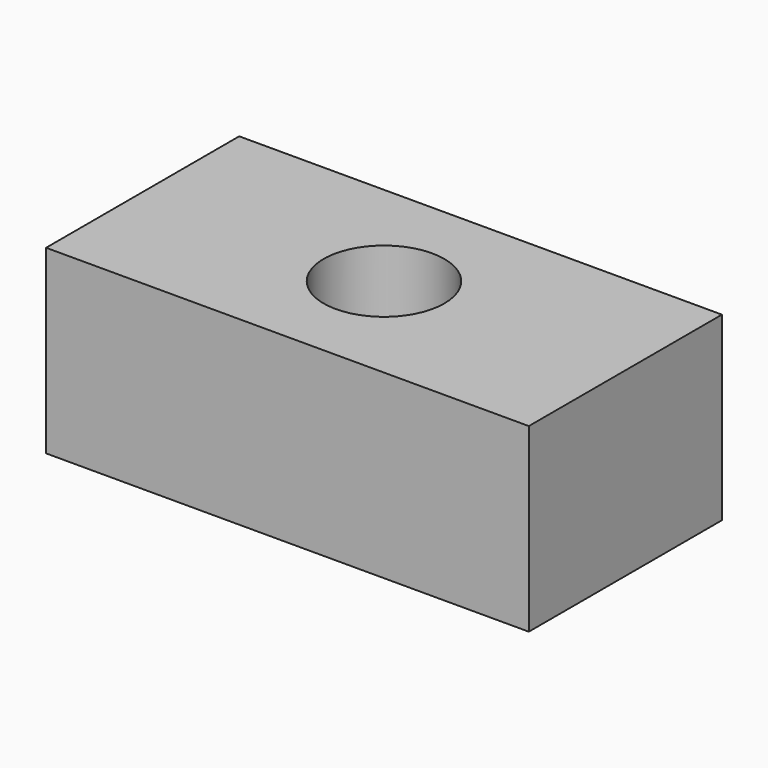
from build123d import *

# Parameters (mm, degrees)
F0_W     = 101.6
F0_H     = 50.8
F1_DEPTH = 19.05
F2_R     = 12.7
F3_DEPTH = 38.101


with BuildPart() as f1:
    # F0 (on Top) → F1 (new body, symmetric)
    with BuildSketch(Plane.XY):
        Rectangle(F0_W, F0_H)
    extrude(amount=F1_DEPTH, both=True)

    # F2 (on face) → F3 (cut, through all)
    with BuildSketch(Plane.XY.offset(19.05)):
        Circle(F2_R)
    extrude(amount=-F3_DEPTH, mode=Mode.SUBTRACT)


solid = f1.part
